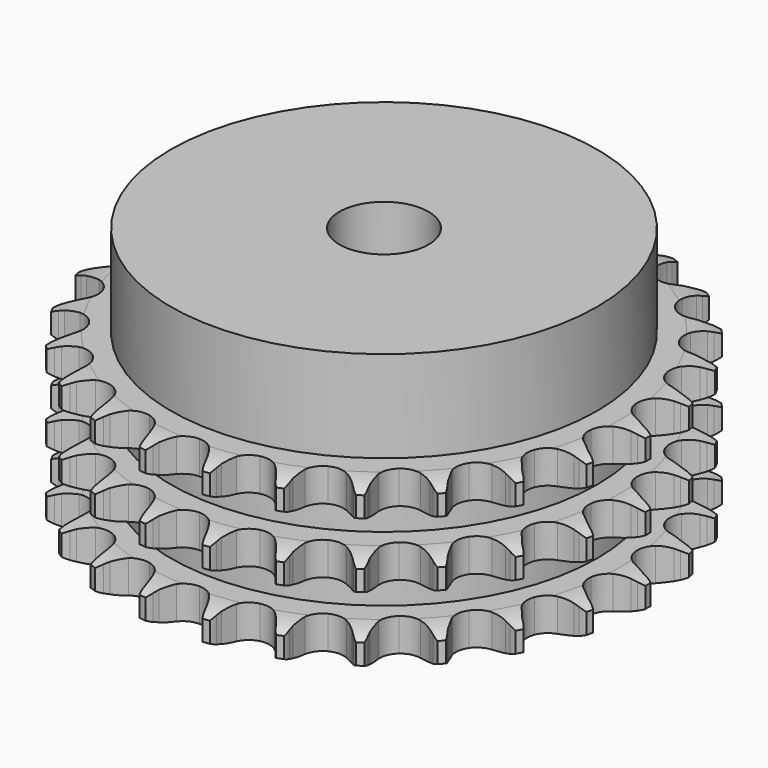
from build123d import *

# Parameters (mm, degrees)
PAD_DEPTH         = 25.6
SKETCH001_R       = 33.5
PAD001_DEPTH      = 40
SKETCH002_R       = 7
POCKET_DEPTH      = 0.001
POCKET_DEPTH_BACK = 40.001


with BuildPart() as part:
    # Sprocket → Pad (new body)
    with BuildSketch(Plane.XY):
        with BuildLine():
            ThreePointArc((-5.105702, 42.049237), (-4.468406, 41.247291), (-4.001262, 40.335676))
            Line((-4.001262, 40.335676), (-3.692267, 39.549699))
            ThreePointArc((-3.692267, 39.549699), (-3.199397, 38.512795), (-2.568301, 37.553728))
            ThreePointArc((-2.568301, 37.553728), (-1.432997, 36.617216), (0, 36.281819))
            ThreePointArc((0, 36.281819), (1.432997, 36.617216), (2.568301, 37.553728))
            ThreePointArc((2.568301, 37.553728), (3.199397, 38.512795), (3.692267, 39.549699))
            Line((3.692267, 39.549699), (4.001262, 40.335676))
            ThreePointArc((4.001262, 40.335676), (4.468406, 41.247291), (5.105702, 42.049237))
            ThreePointArc((5.105702, 42.049237), (5.53256, 41.118079), (5.767966, 40.121159))
            Line((5.767966, 40.121159), (5.879886, 39.284074))
            ThreePointArc((5.879886, 39.284074), (6.110287, 38.159349), (6.493524, 37.07712))
            ThreePointArc((6.493524, 37.07712), (7.371716, 35.896125), (8.682808, 35.227536))
            ThreePointArc((8.682808, 35.227536), (10.15443, 35.210247), (11.480867, 35.84785))
            Line((11.480867, 35.84785), (13.049839, 37.516839))
            ThreePointArc((13.049839, 37.516839), (13.285133, 37.86764), (13.537952, 38.20603))
            ThreePointArc((13.537952, 38.20603), (14.209685, 38.97936), (15.020381, 39.605489))
            ThreePointArc((15.020381, 39.605489), (15.211994, 38.599234), (15.201982, 37.574947))
            Line((15.201982, 37.574947), (15.110322, 36.735401))
            ThreePointArc((15.110322, 36.735401), (15.064863, 35.58822), (15.17797, 34.445724))
            ThreePointArc((15.17797, 34.445724), (15.748013, 33.088881), (16.861002, 32.125956))
            ThreePointArc((16.861002, 32.125956), (18.285725, 31.756987), (19.726206, 32.058626))
            Line((19.726206, 32.058626), (21.649001, 33.303637))
            ThreePointArc((21.649001, 33.303637), (21.961411, 33.587935), (22.287865, 33.855988))
            ThreePointArc((22.287865, 33.855988), (23.125149, 34.44609), (24.062129, 34.860013))
            ThreePointArc((24.062129, 34.860013), (24.007363, 33.837142), (23.752513, 32.845015))
            Line((23.752513, 32.845015), (23.4626, 32.0518))
            ThreePointArc((23.4626, 32.0518), (23.143924, 30.948833), (22.980327, 29.812468))
            ThreePointArc((22.980327, 29.812468), (23.209092, 28.358632), (24.059297, 27.157332))
            ThreePointArc((24.059297, 27.157332), (25.354319, 26.458127), (26.825129, 26.40627))
            Line((26.825129, 26.40627), (28.990003, 27.154949))
            ThreePointArc((28.990003, 27.154949), (29.361371, 27.356221), (29.742489, 27.538359))
            ThreePointArc((29.742489, 27.538359), (30.696663, 27.910939), (31.705475, 28.0886))
            ThreePointArc((31.705475, 28.0886), (31.40751, 27.108558), (30.922635, 26.20625))
            Line((30.922635, 26.20625), (30.451317, 25.505466))
            ThreePointArc((30.451317, 25.505466), (29.877944, 24.510813), (29.447151, 23.44662))
            ThreePointArc((29.447151, 23.44662), (29.321342, 21.980283), (29.859352, 20.610423))
            ThreePointArc((29.859352, 20.610423), (30.949413, 19.621616), (32.365074, 19.219279))
            Line((32.365074, 19.219279), (34.646211, 19.428114))
            ThreePointArc((34.646211, 19.428114), (35.054955, 19.534663), (35.468587, 19.620301))
            ThreePointArc((35.468587, 19.620301), (36.484199, 19.753705), (37.506213, 19.684779))
            ThreePointArc((37.506213, 19.684779), (36.982368, 18.804523), (36.295645, 18.044473))
            Line((36.295645, 18.044473), (35.670315, 17.476846))
            ThreePointArc((35.670315, 17.476846), (34.875567, 16.648313), (34.202614, 15.718139))
            ThreePointArc((34.202614, 15.718139), (33.729544, 14.324519), (33.924091, 12.86571))
            ThreePointArc((33.924091, 12.86571), (34.745839, 11.644768), (36.024078, 10.915332))
            Line((36.024078, 10.915332), (38.288907, 10.572187))
            ThreePointArc((38.288907, 10.572187), (38.711273, 10.577821), (39.13338, 10.561983))
            ThreePointArc((39.13338, 10.561983), (40.151405, 10.448458), (41.127227, 10.136951))
            ThreePointArc((41.127227, 10.136951), (40.407944, 9.407638), (39.559285, 8.834017))
            Line((39.559285, 8.834017), (38.816283, 8.432535))
            ThreePointArc((38.816283, 8.432535), (37.846349, 7.818274), (36.970345, 7.076177))
            ThreePointArc((36.970345, 7.076177), (36.177506, 5.836267), (36.017284, 4.37329))
            ThreePointArc((36.017284, 4.37329), (36.522964, 2.991169), (37.589494, 1.977026))
            Line((37.589494, 1.977026), (39.706391, 1.101843))
            ThreePointArc((39.706391, 1.101843), (40.117832, 1.006235), (40.523883, 0.88984))
            ThreePointArc((40.523883, 0.88984), (41.485158, 0.535985), (42.358076, 0))
            ThreePointArc((42.358076, 0), (41.485158, -0.535985), (40.523883, -0.88984))
            Line((40.523883, -0.88984), (39.706391, -1.101843))
            ThreePointArc((39.706391, -1.101843), (38.617638, -1.466135), (37.589494, -1.977026))
            ThreePointArc((37.589494, -1.977026), (36.522964, -2.991169), (36.017284, -4.37329))
            ThreePointArc((36.017284, -4.37329), (36.177506, -5.836267), (36.970345, -7.076177))
            Line((36.970345, -7.076177), (38.816283, -8.432535))
            ThreePointArc((38.816283, -8.432535), (39.192888, -8.62383), (39.559285, -8.834017))
            ThreePointArc((39.559285, -8.834017), (40.407944, -9.407638), (41.127227, -10.136951))
            ThreePointArc((41.127227, -10.136951), (40.151405, -10.448458), (39.13338, -10.561983))
            Line((39.13338, -10.561983), (38.288907, -10.572187))
            ThreePointArc((38.288907, -10.572187), (37.144611, -10.665337), (36.024078, -10.915332))
            ThreePointArc((36.024078, -10.915332), (34.745839, -11.644768), (33.924091, -12.86571))
            ThreePointArc((33.924091, -12.86571), (33.729544, -14.324519), (34.202614, -15.718139))
            Line((34.202614, -15.718139), (35.670315, -17.476846))
            ThreePointArc((35.670315, -17.476846), (35.990197, -17.752709), (36.295645, -18.044473))
            ThreePointArc((36.295645, -18.044473), (36.982368, -18.804523), (37.506213, -19.684779))
            ThreePointArc((37.506213, -19.684779), (36.484199, -19.753705), (35.468587, -19.620301))
            Line((35.468587, -19.620301), (34.646211, -19.428114))
            ThreePointArc((34.646211, -19.428114), (33.512873, -19.244709), (32.365074, -19.219279))
            ThreePointArc((32.365074, -19.219279), (30.949413, -19.621616), (29.859352, -20.610423))
            ThreePointArc((29.859352, -20.610423), (29.321342, -21.980283), (29.447151, -23.44662))
            Line((29.447151, -23.44662), (30.451317, -25.505466))
            ThreePointArc((30.451317, -25.505466), (30.695885, -25.849866), (30.922635, -26.20625))
            ThreePointArc((30.922635, -26.20625), (31.40751, -27.108558), (31.705475, -28.0886))
            ThreePointArc((31.705475, -28.0886), (30.696663, -27.910939), (29.742489, -27.538359))
            Line((29.742489, -27.538359), (28.990003, -27.154949))
            ThreePointArc((28.990003, -27.154949), (27.93349, -26.705648), (26.825129, -26.40627))
            ThreePointArc((26.825129, -26.40627), (25.354319, -26.458127), (24.059297, -27.157332))
            ThreePointArc((24.059297, -27.157332), (23.209092, -28.358632), (22.980327, -29.812468))
            Line((22.980327, -29.812468), (23.4626, -32.0518))
            ThreePointArc((23.4626, -32.0518), (23.617641, -32.444722), (23.752513, -32.845015))
            ThreePointArc((23.752513, -32.845015), (24.007363, -33.837142), (24.062129, -34.860013))
            ThreePointArc((24.062129, -34.860013), (23.125149, -34.44609), (22.287865, -33.855988))
            Line((22.287865, -33.855988), (21.649001, -33.303637))
            ThreePointArc((21.649001, -33.303637), (20.730713, -32.614552), (19.726206, -32.058626))
            ThreePointArc((19.726206, -32.058626), (18.285725, -31.756987), (16.861002, -32.125956))
            ThreePointArc((16.861002, -32.125956), (15.748013, -33.088881), (15.17797, -34.445724))
            Line((15.17797, -34.445724), (15.110322, -36.735401))
            ThreePointArc((15.110322, -36.735401), (15.166825, -37.154009), (15.201982, -37.574947))
            ThreePointArc((15.201982, -37.574947), (15.211994, -38.599234), (15.020381, -39.605489))
            ThreePointArc((15.020381, -39.605489), (14.209685, -38.97936), (13.537952, -38.20603))
            Line((13.537952, -38.20603), (13.049839, -37.516839))
            ThreePointArc((13.049839, -37.516839), (12.323143, -36.628017), (11.480867, -35.84785))
            ThreePointArc((11.480867, -35.84785), (10.15443, -35.210247), (8.682808, -35.227536))
            ThreePointArc((8.682808, -35.227536), (7.371716, -35.896125), (6.493524, -37.07712))
            Line((6.493524, -37.07712), (5.879886, -39.284074))
            ThreePointArc((5.879886, -39.284074), (5.834568, -39.704039), (5.767966, -40.121159))
            ThreePointArc((5.767966, -40.121159), (5.53256, -41.118079), (5.105702, -42.049237))
            ThreePointArc((5.105702, -42.049237), (4.468406, -41.247291), (4.001262, -40.335676))
            Line((4.001262, -40.335676), (3.692267, -39.549699))
            ThreePointArc((3.692267, -39.549699), (3.199397, -38.512795), (2.568301, -37.553728))
            ThreePointArc((2.568301, -37.553728), (1.432997, -36.617216), (0, -36.281819))
            ThreePointArc((0, -36.281819), (-1.432997, -36.617216), (-2.568301, -37.553728))
            Line((-2.568301, -37.553728), (-3.692267, -39.549699))
            ThreePointArc((-3.692267, -39.549699), (-3.836772, -39.946616), (-4.001262, -40.335676))
            ThreePointArc((-4.001262, -40.335676), (-4.468406, -41.247291), (-5.105702, -42.049237))
            ThreePointArc((-5.105702, -42.049237), (-5.53256, -41.118079), (-5.767966, -40.121159))
            Line((-5.767966, -40.121159), (-5.879886, -39.284074))
            ThreePointArc((-5.879886, -39.284074), (-6.110287, -38.159349), (-6.493524, -37.07712))
            ThreePointArc((-6.493524, -37.07712), (-7.371716, -35.896125), (-8.682808, -35.227536))
            ThreePointArc((-8.682808, -35.227536), (-10.15443, -35.210247), (-11.480867, -35.84785))
            Line((-11.480867, -35.84785), (-13.049839, -37.516839))
            ThreePointArc((-13.049839, -37.516839), (-13.285133, -37.86764), (-13.537952, -38.20603))
            ThreePointArc((-13.537952, -38.20603), (-14.209685, -38.97936), (-15.020381, -39.605489))
            ThreePointArc((-15.020381, -39.605489), (-15.211994, -38.599234), (-15.201982, -37.574947))
            Line((-15.201982, -37.574947), (-15.110322, -36.735401))
            ThreePointArc((-15.110322, -36.735401), (-15.064863, -35.58822), (-15.17797, -34.445724))
            ThreePointArc((-15.17797, -34.445724), (-15.748013, -33.088881), (-16.861002, -32.125956))
            ThreePointArc((-16.861002, -32.125956), (-18.285725, -31.756987), (-19.726206, -32.058626))
            Line((-19.726206, -32.058626), (-21.649001, -33.303637))
            ThreePointArc((-21.649001, -33.303637), (-21.961411, -33.587935), (-22.287865, -33.855988))
            ThreePointArc((-22.287865, -33.855988), (-23.125149, -34.44609), (-24.062129, -34.860013))
            ThreePointArc((-24.062129, -34.860013), (-24.007363, -33.837142), (-23.752513, -32.845015))
            Line((-23.752513, -32.845015), (-23.4626, -32.0518))
            ThreePointArc((-23.4626, -32.0518), (-23.143924, -30.948833), (-22.980327, -29.812468))
            ThreePointArc((-22.980327, -29.812468), (-23.209092, -28.358632), (-24.059297, -27.157332))
            ThreePointArc((-24.059297, -27.157332), (-25.354319, -26.458127), (-26.825129, -26.40627))
            Line((-26.825129, -26.40627), (-28.990003, -27.154949))
            ThreePointArc((-28.990003, -27.154949), (-29.361371, -27.356221), (-29.742489, -27.538359))
            ThreePointArc((-29.742489, -27.538359), (-30.696663, -27.910939), (-31.705475, -28.0886))
            ThreePointArc((-31.705475, -28.0886), (-31.40751, -27.108558), (-30.922635, -26.20625))
            Line((-30.922635, -26.20625), (-30.451317, -25.505466))
            ThreePointArc((-30.451317, -25.505466), (-29.877944, -24.510813), (-29.447151, -23.44662))
            ThreePointArc((-29.447151, -23.44662), (-29.321342, -21.980283), (-29.859352, -20.610423))
            ThreePointArc((-29.859352, -20.610423), (-30.949413, -19.621616), (-32.365074, -19.219279))
            Line((-32.365074, -19.219279), (-34.646211, -19.428114))
            ThreePointArc((-34.646211, -19.428114), (-35.054955, -19.534663), (-35.468587, -19.620301))
            ThreePointArc((-35.468587, -19.620301), (-36.484199, -19.753705), (-37.506213, -19.684779))
            ThreePointArc((-37.506213, -19.684779), (-36.982368, -18.804523), (-36.295645, -18.044473))
            Line((-36.295645, -18.044473), (-35.670315, -17.476846))
            ThreePointArc((-35.670315, -17.476846), (-34.875567, -16.648313), (-34.202614, -15.718139))
            ThreePointArc((-34.202614, -15.718139), (-33.729544, -14.324519), (-33.924091, -12.86571))
            ThreePointArc((-33.924091, -12.86571), (-34.745839, -11.644768), (-36.024078, -10.915332))
            Line((-36.024078, -10.915332), (-38.288907, -10.572187))
            ThreePointArc((-38.288907, -10.572187), (-38.711273, -10.577821), (-39.13338, -10.561983))
            ThreePointArc((-39.13338, -10.561983), (-40.151405, -10.448458), (-41.127227, -10.136951))
            ThreePointArc((-41.127227, -10.136951), (-40.407944, -9.407638), (-39.559285, -8.834017))
            Line((-39.559285, -8.834017), (-38.816283, -8.432535))
            ThreePointArc((-38.816283, -8.432535), (-37.846349, -7.818274), (-36.970345, -7.076177))
            ThreePointArc((-36.970345, -7.076177), (-36.177506, -5.836267), (-36.017284, -4.37329))
            ThreePointArc((-36.017284, -4.37329), (-36.522964, -2.991169), (-37.589494, -1.977026))
            Line((-37.589494, -1.977026), (-39.706391, -1.101843))
            ThreePointArc((-39.706391, -1.101843), (-40.117832, -1.006235), (-40.523883, -0.88984))
            ThreePointArc((-40.523883, -0.88984), (-41.485158, -0.535985), (-42.358076, 0))
            ThreePointArc((-42.358076, 0), (-41.485158, 0.535985), (-40.523883, 0.88984))
            Line((-40.523883, 0.88984), (-39.706391, 1.101843))
            ThreePointArc((-39.706391, 1.101843), (-38.617638, 1.466135), (-37.589494, 1.977026))
            ThreePointArc((-37.589494, 1.977026), (-36.522964, 2.991169), (-36.017284, 4.37329))
            ThreePointArc((-36.017284, 4.37329), (-36.177506, 5.836267), (-36.970345, 7.076177))
            Line((-36.970345, 7.076177), (-38.816283, 8.432535))
            ThreePointArc((-38.816283, 8.432535), (-39.192888, 8.62383), (-39.559285, 8.834017))
            ThreePointArc((-39.559285, 8.834017), (-40.407944, 9.407638), (-41.127227, 10.136951))
            ThreePointArc((-41.127227, 10.136951), (-40.151405, 10.448458), (-39.13338, 10.561983))
            Line((-39.13338, 10.561983), (-38.288907, 10.572187))
            ThreePointArc((-38.288907, 10.572187), (-37.144611, 10.665337), (-36.024078, 10.915332))
            ThreePointArc((-36.024078, 10.915332), (-34.745839, 11.644768), (-33.924091, 12.86571))
            ThreePointArc((-33.924091, 12.86571), (-33.729544, 14.324519), (-34.202614, 15.718139))
            Line((-34.202614, 15.718139), (-35.670315, 17.476846))
            ThreePointArc((-35.670315, 17.476846), (-35.990197, 17.752709), (-36.295645, 18.044473))
            ThreePointArc((-36.295645, 18.044473), (-36.982368, 18.804523), (-37.506213, 19.684779))
            ThreePointArc((-37.506213, 19.684779), (-36.484199, 19.753705), (-35.468587, 19.620301))
            Line((-35.468587, 19.620301), (-34.646211, 19.428114))
            ThreePointArc((-34.646211, 19.428114), (-33.512873, 19.244709), (-32.365074, 19.219279))
            ThreePointArc((-32.365074, 19.219279), (-30.949413, 19.621616), (-29.859352, 20.610423))
            ThreePointArc((-29.859352, 20.610423), (-29.321342, 21.980283), (-29.447151, 23.44662))
            Line((-29.447151, 23.44662), (-30.451317, 25.505466))
            ThreePointArc((-30.451317, 25.505466), (-30.695885, 25.849866), (-30.922635, 26.20625))
            ThreePointArc((-30.922635, 26.20625), (-31.40751, 27.108558), (-31.705475, 28.0886))
            ThreePointArc((-31.705475, 28.0886), (-30.696663, 27.910939), (-29.742489, 27.538359))
            Line((-29.742489, 27.538359), (-28.990003, 27.154949))
            ThreePointArc((-28.990003, 27.154949), (-27.93349, 26.705648), (-26.825129, 26.40627))
            ThreePointArc((-26.825129, 26.40627), (-25.354319, 26.458127), (-24.059297, 27.157332))
            ThreePointArc((-24.059297, 27.157332), (-23.209092, 28.358632), (-22.980327, 29.812468))
            Line((-22.980327, 29.812468), (-23.4626, 32.0518))
            ThreePointArc((-23.4626, 32.0518), (-23.617641, 32.444722), (-23.752513, 32.845015))
            ThreePointArc((-23.752513, 32.845015), (-24.007363, 33.837142), (-24.062129, 34.860013))
            ThreePointArc((-24.062129, 34.860013), (-23.125149, 34.44609), (-22.287865, 33.855988))
            Line((-22.287865, 33.855988), (-21.649001, 33.303637))
            ThreePointArc((-21.649001, 33.303637), (-20.730713, 32.614552), (-19.726206, 32.058626))
            ThreePointArc((-19.726206, 32.058626), (-18.285725, 31.756987), (-16.861002, 32.125956))
            ThreePointArc((-16.861002, 32.125956), (-15.748013, 33.088881), (-15.17797, 34.445724))
            Line((-15.17797, 34.445724), (-15.110322, 36.735401))
            ThreePointArc((-15.110322, 36.735401), (-15.166825, 37.154009), (-15.201982, 37.574947))
            ThreePointArc((-15.201982, 37.574947), (-15.211994, 38.599234), (-15.020381, 39.605489))
            ThreePointArc((-15.020381, 39.605489), (-14.209685, 38.97936), (-13.537952, 38.20603))
            Line((-13.537952, 38.20603), (-13.049839, 37.516839))
            ThreePointArc((-13.049839, 37.516839), (-12.323143, 36.628017), (-11.480867, 35.84785))
            ThreePointArc((-11.480867, 35.84785), (-10.15443, 35.210247), (-8.682808, 35.227536))
            ThreePointArc((-8.682808, 35.227536), (-7.371716, 35.896125), (-6.493524, 37.07712))
            Line((-6.493524, 37.07712), (-5.879886, 39.284074))
            ThreePointArc((-5.879886, 39.284074), (-5.834568, 39.704039), (-5.767966, 40.121159))
            ThreePointArc((-5.767966, 40.121159), (-5.53256, 41.118079), (-5.105702, 42.049237))
        make_face()
    extrude(amount=PAD_DEPTH)

    # Sketch → Groove (revolve, cut)
    with BuildSketch(Plane.XZ):
        with BuildLine():
            ThreePointArc((37.141101, 0), (39.377169, 0.253206), (41.5, 1))
            Line((41.5, 1), (41.5, 4.2))
            ThreePointArc((41.5, 4.2), (39.377169, 4.946794), (37.141101, 5.2))
            Line((33.5, 5.2), (37.141101, 5.2))
            Line((33.5, 5.2), (33.5, 10.2))
            Line((33.5, 10.2), (37.141101, 10.2))
            ThreePointArc((37.141101, 10.2), (39.377169, 10.453206), (41.5, 11.2))
            Line((41.5, 14.4), (41.5, 11.2))
            ThreePointArc((41.5, 14.4), (39.377169, 15.146794), (37.141101, 15.4))
            Line((33.5, 15.4), (37.141101, 15.4))
            Line((33.5, 20.4), (33.5, 15.4))
            Line((37.141101, 20.4), (33.5, 20.4))
            ThreePointArc((37.141101, 20.4), (39.377169, 20.653206), (41.5, 21.4))
            Line((41.5, 21.4), (41.5, 24.6))
            ThreePointArc((41.5, 24.6), (39.377169, 25.346794), (37.141101, 25.6))
            Line((37.141101, 25.6), (51.5, 25.6))
            Line((51.5, 25.6), (51.5, 0))
            Line((37.141101, 0), (51.5, 0))
        make_face()
    revolve(axis=Axis((0, 0, 0), (0, 0, 1)), mode=Mode.SUBTRACT)

    # Sketch001 → Pad001 (join)
    with BuildSketch(Plane.XY):
        Circle(SKETCH001_R)
    extrude(amount=PAD001_DEPTH)

    # Sketch002 → Pocket (cut, two sides)
    with BuildSketch(Plane.XY) as pocket_sk:
        Circle(SKETCH002_R)
    extrude(amount=-POCKET_DEPTH, mode=Mode.SUBTRACT)
    extrude(pocket_sk.sketch, amount=POCKET_DEPTH_BACK, mode=Mode.SUBTRACT)


solid = part.part
